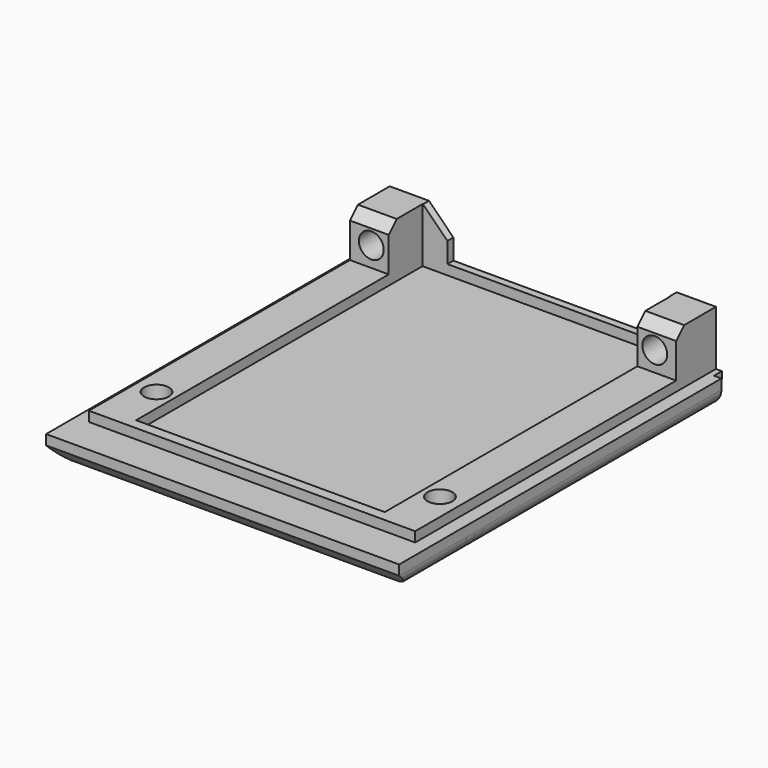
from build123d import *

# Parameters (mm, degrees)
SKETCH028_W        = 71
SKETCH028_H        = 81
PAD014_DEPTH       = 5
SKETCH034_W        = 68
SKETCH034_H        = 1.5
PAD017_DEPTH       = 2
SKETCH035_W        = 64.6
SKETCH035_H        = 77.6
PAD018_DEPTH       = 2
SKETCH036_W        = 50
SKETCH036_H        = 72
POCKET028_DEPTH    = 4
SKETCH039_W        = 7.3
SKETCH039_H        = 10
PAD020_DEPTH       = 9
SKETCH040_W        = 5
SKETCH040_H        = 3.5
PAD021_DEPTH       = 9
CHAMFER006_SIZE    = 4.9
SKETCH041_R        = 2.5
POCKET031_DEPTH    = 10
SKETCH047_R        = 2.5
POCKET043_DEPTH    = 10
SKETCH051_R        = 4.5
POCKET044_DEPTH    = 3
POCKET044_FACE29_W = 64.6
POCKET044_FACE29_H = 2
POCKET045_DEPTH    = 2
POCKET045_FACE16_W = 50
POCKET045_FACE16_H = 4
PAD035_DEPTH       = 2
POCKET046_DEPTH    = 2
CHAMFER012_SIZE    = 3
CHAMFER018_SIZE    = 2
SKETCH063_W        = 50
SKETCH063_H        = 72
PAD040_DEPTH       = 2
PAD040_FACE37_W    = 0.5
PAD040_FACE37_H    = 50
POCKET056_DEPTH    = 0.5
PAD042_DEPTH       = 0.5
PAD043_DEPTH       = 0.5
POCKET064_DEPTH    = 1
CHAMFER022_SIZE    = 0.999
FILLET006_R        = 3


with BuildPart() as part:
    # Sketch028 → Pad014 (new body)
    with BuildSketch(Plane.XY):
        with Locations((-0.121221, -9.466726)):
            Rectangle(SKETCH028_W, SKETCH028_H)
    extrude(amount=-PAD014_DEPTH)

    # Sketch034 (on Face1 of Pad014) → Pad017 (join)
    with BuildSketch(Plane(origin=(0, 31.033274, 0), x_dir=(-1, 0, 0), z_dir=(0, 1, 0))):
        with Locations((0.121221, -0.75)):
            Rectangle(SKETCH034_W, SKETCH034_H)
    extrude(amount=PAD017_DEPTH)

    # Sketch035 (on Face10 of Pad017) → Pad018 (join)
    with BuildSketch(Plane.XY):
        with Locations((-0.121221, -5.766726)):
            Rectangle(SKETCH035_W, SKETCH035_H)
    extrude(amount=PAD018_DEPTH)

    # Sketch036 (on Face13 of Pad018) → Pocket028 (cut)
    with BuildSketch(Plane.XY.offset(2)):
        with Locations((-0.121221, -6.466726)):
            Rectangle(SKETCH036_W, SKETCH036_H)
    extrude(amount=-POCKET028_DEPTH, mode=Mode.SUBTRACT)

    # Sketch039 (on Face14 of Pocket028) → Pad020 (join)
    with BuildSketch(Plane.XY.offset(2)):
        with Locations((28.528779, 28.033274)):
            Rectangle(SKETCH039_W, SKETCH039_H)
        with Locations((-28.771221, 28.033274)):
            Rectangle(SKETCH039_W, SKETCH039_H)
    extrude(amount=PAD020_DEPTH)

    # Sketch040 (on Face1 of Pad020) → Pad021 (join)
    with BuildSketch(Plane.XY.offset(2)):
        with Locations((-22.621221, 31.283274)):
            Rectangle(SKETCH040_W, SKETCH040_H)
        with Locations((22.378779, 31.283274)):
            Rectangle(SKETCH040_W, SKETCH040_H)
    extrude(amount=PAD021_DEPTH)

    # Chamfer006
    chamfer006_edges = [part.edges().sort_by_distance(p)[0] for p in [
        (-20.121221, 31.283274, 11),
        (19.878779, 31.283274, 11),
    ]]
    chamfer(chamfer006_edges, length=CHAMFER006_SIZE)

    # Sketch041 (on Face12 of Chamfer006) → Pocket031 (cut)
    with BuildSketch(Plane(origin=(0, 33.033274, 0), x_dir=(-1, 0, 0), z_dir=(0, 1, 0))):
        with Locations((-28.378779, 6)):
            Circle(SKETCH041_R)
        with Locations((28.621221, 6)):
            Circle(SKETCH041_R)
    extrude(amount=-POCKET031_DEPTH, mode=Mode.SUBTRACT)

    # Sketch047 (on Face30 of Pocket031) → Pocket043 (cut)
    with BuildSketch(Plane(origin=(0, 0, -5), x_dir=(1, 0, 0), z_dir=(0, 0, -1))):
        with Locations((-28.621221, 30.966726)):
            Circle(SKETCH047_R)
        with Locations((28.378779, 30.966726)):
            Circle(SKETCH047_R)
    extrude(amount=-POCKET043_DEPTH, mode=Mode.SUBTRACT)

    # Sketch051 (on Face32 of Pocket043) → Pocket044 (cut)
    with BuildSketch(Plane(origin=(0, 0, -5), x_dir=(1, 0, 0), z_dir=(0, 0, -1))):
        with Locations((-28.621221, 30.966726)):
            Circle(SKETCH051_R)
        with Locations((28.378779, 30.966726)):
            Circle(SKETCH051_R)
    extrude(amount=-POCKET044_DEPTH, mode=Mode.SUBTRACT)

    # Pocket044 Face29 → Pocket045 (cut)
    with BuildSketch(Plane(origin=(-0.121221, -44.566726, 1), x_dir=(-1, 0, 0), z_dir=(0, -1, 0))):
        Rectangle(POCKET044_FACE29_W, POCKET044_FACE29_H)
    extrude(amount=-POCKET045_DEPTH, mode=Mode.SUBTRACT)

    # Pocket045 Face16 → Pad035 (add)
    with BuildSketch(Plane(origin=(-0.121221, -42.466726, 0), x_dir=(1, 0, 0), z_dir=(0, 1, 0))):
        Rectangle(POCKET045_FACE16_W, POCKET045_FACE16_H)
    extrude(amount=PAD035_DEPTH)

    # Pad035 Face1 → Pocket046 (cut)
    with BuildSketch(Plane(origin=(-0.121221, 29.533274, 1.353834), x_dir=(-1, 0, 0), z_dir=(0, -1, 0))):
        Polygon((-25, -9.646166), (-24.9, -9.646166), (-20, -4.746166), (-20, -0.646166), (20, -0.646166), (20, -4.746166), (24.9, -9.646166), (25, -9.646166), (25, 3.353834), (-25, 3.353834), align=None)
    extrude(amount=-POCKET046_DEPTH, mode=Mode.SUBTRACT)

    # Chamfer012
    chamfer012_edges = [part.edges().sort_by_distance(p)[0] for p in [
        (-0.121221, -49.966726, -5),
    ]]
    chamfer(chamfer012_edges, length=CHAMFER012_SIZE)

    # Chamfer018
    chamfer018_edges = [part.edges().sort_by_distance(p)[0] for p in [
        (-28.771221, 23.033274, 11),
        (28.528779, 23.033274, 11),
    ]]
    chamfer(chamfer018_edges, length=CHAMFER018_SIZE)

    # Sketch063 (on Face10 of Chamfer018) → Pad040 (join)
    with BuildSketch(Plane.XY.offset(-2)):
        with Locations((-0.121221, -4.466726)):
            Rectangle(SKETCH063_W, SKETCH063_H)
    extrude(amount=PAD040_DEPTH)

    # Pad040 Face37 → Pocket056 (cut)
    with BuildSketch(Plane(origin=(-0.121221, 31.283274, -2), x_dir=(0, -1, 0), z_dir=(0, 0, -1))):
        Rectangle(PAD040_FACE37_W, PAD040_FACE37_H)
    extrude(amount=-POCKET056_DEPTH, mode=Mode.SUBTRACT)

    # Pocket056 Face9 → Pad042 (add)
    with BuildSketch(Plane(origin=(-32.421221, 7.336396, 2.99136), x_dir=(0, 1, 0), z_dir=(-1, 0, 0))):
        Polygon((17.696878, -8.00864), (25.696878, -8.00864), (25.696878, 2.99136), (-49.903122, 2.99136), (-49.903122, 0.99136), (15.696878, 0.99136), (15.696878, -6.00864), align=None)
    extrude(amount=PAD042_DEPTH)

    # Pad042 Face19 → Pad043 (add)
    with BuildSketch(Plane(origin=(32.178779, 7.336396, 2.99136), x_dir=(0, -1, 0), z_dir=(1, 0, 0))):
        Polygon((-15.696878, -6.00864), (-15.696878, 0.99136), (49.903122, 0.99136), (49.903122, 2.99136), (-25.696878, 2.99136), (-25.696878, -8.00864), (-17.696878, -8.00864), align=None)
    extrude(amount=PAD043_DEPTH)

    # Sketch066 (on Face22 of Pad043) → Pocket064 (cut)
    with BuildSketch(Plane(origin=(0, 0, -5), x_dir=(1, 0, 0), z_dir=(0, 0, -1))):
        with BuildLine():
            ThreePointArc((-5.121221, 34), (-0.121221, 28.999784), (4.878779, 34))
            Line((-5.121221, 34), (4.878779, 34))
        make_face()
    extrude(amount=-POCKET064_DEPTH, mode=Mode.SUBTRACT)

    # Chamfer022
    chamfer022_edges = [part.edges().sort_by_distance(p)[0] for p in [
        (-0.121221, -28.999784, -5),
    ]]
    chamfer(chamfer022_edges, length=CHAMFER022_SIZE)

    # Fillet006
    fillet006_edges = [part.edges().sort_by_distance(p)[0] for p in [
        (-35.621221, -7.966726, -5),
        (35.378779, -7.966726, -5),
    ]]
    fillet(fillet006_edges, radius=FILLET006_R)


with BuildPart() as part_1:
    # Body004 placement: moved
    add(part.part.moved(Location((0.1, -10.49, -34))))


solid = part_1.part
